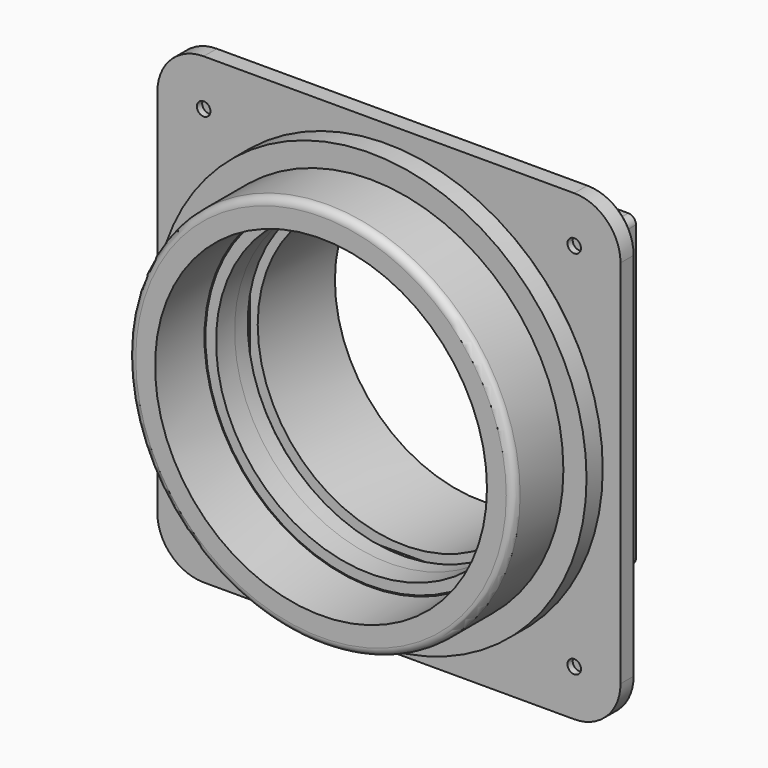
from build123d import *

# Parameters (mm, degrees)
SKETCH001_R             = 3
POCKET_DEPTH            = 4
POLARPATTERN_COUNT      = 6
CHAMFER_SIZE            = 0.75
BODY_PLACEMENT_ANGLE    = 90
SKETCH492_R             = 40
PAD111_DEPTH            = 5
SKETCH502_R             = 3
POCKET352_DEPTH         = 3.5
POLARPATTERN007_COUNT   = 6
SKETCH504_R             = 1.75
POCKET353_DEPTH         = 1.7
POCKET354_DEPTH         = 3.001
POCKET355_DEPTH         = 9.001
SKETCH506_R             = 1.75
POCKET356_DEPTH         = 6.001
POCKET356_DEPTH_BACK    = -5.001
CHAMFER001_SIZE         = 0.75
BODY166_PLACEMENT_ANGLE = 180
SKETCH498_R             = 2
SKETCH498_R_2           = 38
PAD113_DEPTH            = 25
BODY167_PLACEMENT_ANGLE = 180


with BuildPart() as air_connector_hose:
    # Sketch → Revolution (revolve)
    with BuildSketch(Plane.XZ):
        with BuildLine():
            Line((56, 0), (56, 6))
            Line((56, 6), (50, 6))
            Line((50, 6), (50, 20))
            ThreePointArc((50, 20), (49.414214, 21.414214), (48, 22))
            Line((48, 22), (43, 22))
            Line((43, 6), (43, 22))
            Line((46, 0), (43, 6))
            Line((46, 0), (56, 0))
        make_face()
    revolve(axis=Axis((0, 0, 0), (0, 0, 1)))

    # Sketch001 → Pocket (cut)
    with BuildSketch(Plane.XY):
        with Locations((51, 0)):
            Circle(SKETCH001_R)
    pocket = extrude(amount=POCKET_DEPTH, mode=Mode.SUBTRACT)

    # PolarPattern: Pocket ×6 about axis
    polarpattern_axis = Axis((0, 0, 0), (0, 0, 1))
    for i in range(1, POLARPATTERN_COUNT):
        add(pocket.rotate(polarpattern_axis, i * 360 / POLARPATTERN_COUNT), mode=Mode.SUBTRACT)

    # Chamfer
    chamfer_edges = [air_connector_hose.edges().sort_by_distance(p)[0] for p in [
        (-56, 0, 0),
        (24, 41.569219, 0),
        (48, 0, 0),
        (-24, 41.569219, 0),
        (-46, 0, 0),
        (-48, 0, 0),
        (24, -41.569219, 0),
        (-24, -41.569219, 0),
    ]]
    chamfer(chamfer_edges, length=CHAMFER_SIZE)


with BuildPart() as air_connector_hose_1:
    # Body placement: moved
    add(air_connector_hose.part.rotate(Axis((0, 0, 0), (1, 0, 0)), BODY_PLACEMENT_ANGLE))


with BuildPart() as air_connector_chamber:
    # Sketch492 → Pad111 (new body)
    with BuildSketch(Plane.XZ):
        with BuildLine():
            Line((-60, 48), (-60, -48))
            ThreePointArc((-60, -48), (-56.485281, -56.485281), (-48, -60))
            Line((-48, -60), (48, -60))
            ThreePointArc((48, -60), (56.485281, -56.485281), (60, -48))
            Line((60, -48), (60, 48))
            ThreePointArc((60, 48), (56.485281, 56.485281), (48, 60))
            Line((48, 60), (-48, 60))
            ThreePointArc((-48, 60), (-56.485281, 56.485281), (-60, 48))
        make_face()
        Circle(SKETCH492_R, mode=Mode.SUBTRACT)
    extrude(amount=PAD111_DEPTH)

    # Sketch502 → Pocket352 (cut)
    with BuildSketch(Plane.XZ):
        with Locations((51, 0)):
            Circle(SKETCH502_R)
    pocket352 = extrude(amount=POCKET352_DEPTH, mode=Mode.SUBTRACT)

    # PolarPattern007: Pocket352 ×6 about axis
    polarpattern007_axis = Axis((0, 0, 0), (0, 1, 0))
    for i in range(1, POLARPATTERN007_COUNT):
        add(pocket352.rotate(polarpattern007_axis, i * 360 / POLARPATTERN007_COUNT), mode=Mode.SUBTRACT)

    # Sketch503 → Revolution001 (revolve)
    with BuildSketch(Plane.XY):
        Polygon((40, 0), (40, 6), (42.75, 6), (45.75, 0), align=None)
    revolve(axis=Axis((0, 0, 0), (0, 1, 0)))

    # Sketch504 → Pocket353 (cut)
    with BuildSketch(Plane.XZ):
        with Locations((-48, 48)):
            Circle(SKETCH504_R)
        with Locations((48, 48)):
            Circle(SKETCH504_R)
        with Locations((48, -48)):
            Circle(SKETCH504_R)
        with Locations((-48, -48)):
            Circle(SKETCH504_R)
    extrude(amount=POCKET353_DEPTH, mode=Mode.SUBTRACT)

    # Sketch505 → Pocket354 (cut, through all)
    with BuildSketch(Plane.XZ.offset(2)):
        Polygon((-46.412287, 45.25), (-44.824574, 48), (-46.412287, 50.75), (-49.587713, 50.75), (-51.175426, 48), (-49.587713, 45.25), align=None)
        Polygon((49.587713, 45.25), (51.175426, 48), (49.587713, 50.75), (46.412287, 50.75), (44.824574, 48), (46.412287, 45.25), align=None)
        Polygon((49.587713, -50.75), (51.175426, -48), (49.587713, -45.25), (46.412287, -45.25), (44.824574, -48), (46.412287, -50.75), align=None)
        Polygon((-44.824574, -48), (-46.412287, -45.25), (-49.587713, -45.25), (-51.175426, -48), (-49.587713, -50.75), (-46.412287, -50.75), align=None)
    extrude(amount=POCKET354_DEPTH, mode=Mode.SUBTRACT)

    # Sketch507 → Pocket355 (cut, through all)
    with BuildSketch(Plane.XZ.offset(3)):
        Polygon((-34.412287, 33.25), (-32.824574, 36), (-34.412287, 38.75), (-37.587713, 38.75), (-39.175426, 36), (-37.587713, 33.25), align=None)
        Polygon((37.587713, 33.25), (39.175426, 36), (37.587713, 38.75), (34.412287, 38.75), (32.824574, 36), (34.412287, 33.25), align=None)
        Polygon((37.587713, -38.75), (39.175426, -36), (37.587713, -33.25), (34.412287, -33.25), (32.824574, -36), (34.412287, -38.75), align=None)
        Polygon((-32.824574, -36), (-34.412287, -33.25), (-37.587713, -33.25), (-39.175426, -36), (-37.587713, -38.75), (-34.412287, -38.75), align=None)
    extrude(amount=-POCKET355_DEPTH, mode=Mode.SUBTRACT)

    # Sketch506 → Pocket356 (cut, two sides)
    with BuildSketch(Plane.XZ) as pocket356_sk:
        with Locations((-36, 36)):
            Circle(SKETCH506_R)
        with Locations((36, 36)):
            Circle(SKETCH506_R)
        with Locations((36, -36)):
            Circle(SKETCH506_R)
        with Locations((-36, -36)):
            Circle(SKETCH506_R)
    extrude(amount=-POCKET356_DEPTH, mode=Mode.SUBTRACT)
    extrude(pocket356_sk.sketch, amount=-POCKET356_DEPTH_BACK, mode=Mode.SUBTRACT)

    # Chamfer001
    chamfer001_edges = [air_connector_chamber.edges().sort_by_distance(p)[0] for p in [
        (-60, -5, 0),
        (-56.485281, -5, 56.485281),
        (-56.485281, -5, -56.485281),
        (0, -5, 60),
        (0, -5, -60),
        (56.485281, -5, 56.485281),
        (56.485281, -5, -56.485281),
        (60, -5, 0),
        (-45.61843, -5, -49.375),
        (-48, -5, -50.75),
        (-45.61843, -5, -46.625),
        (-50.38157, -5, -49.375),
        (-48, -5, -45.25),
        (-50.38157, -5, -46.625),
        (-37.75, -5, -36),
        (-48, -5, 45.25),
        (-50.38157, -5, 46.625),
        (-45.61843, -5, 46.625),
        (-50.38157, -5, 49.375),
        (-45.61843, -5, 49.375),
        (-48, -5, 50.75),
        (-37.75, -5, 36),
        (34.25, -5, -36),
        (48, -5, -50.75),
        (45.61843, -5, -49.375),
        (50.38157, -5, -49.375),
        (45.61843, -5, -46.625),
        (50.38157, -5, -46.625),
        (48, -5, -45.25),
        (-40, -5, 0),
        (34.25, -5, 36),
        (48, -5, 45.25),
        (45.61843, -5, 46.625),
        (50.38157, -5, 46.625),
        (45.61843, -5, 49.375),
        (50.38157, -5, 49.375),
        (48, -5, 50.75),
    ]]
    chamfer(chamfer001_edges, length=CHAMFER001_SIZE)


with BuildPart() as air_connector_chamber_1:
    # Body166 placement: moved
    add(air_connector_chamber.part.rotate(Axis((0, 0, 0), (1, 0, 0)), BODY166_PLACEMENT_ANGLE))


with BuildPart() as exhaust_fan:
    # Sketch498 → Pad113 (new body)
    with BuildSketch(Plane.XZ):
        with BuildLine():
            Line((-40, 38), (-40, -38))
            ThreePointArc((-40, -38), (-39.414214, -39.414214), (-38, -40))
            Line((-38, -40), (38, -40))
            ThreePointArc((38, -40), (39.414214, -39.414214), (40, -38))
            Line((40, -38), (40, 38))
            ThreePointArc((40, 38), (39.414214, 39.414214), (38, 40))
            Line((38, 40), (-38, 40))
            ThreePointArc((-38, 40), (-39.414214, 39.414214), (-40, 38))
        make_face()
        with Locations((-36, 36)):
            Circle(SKETCH498_R, mode=Mode.SUBTRACT)
        with Locations((36, 36)):
            Circle(SKETCH498_R, mode=Mode.SUBTRACT)
        with Locations((36, -36)):
            Circle(SKETCH498_R, mode=Mode.SUBTRACT)
        with Locations((-36, -36)):
            Circle(SKETCH498_R, mode=Mode.SUBTRACT)
        Circle(SKETCH498_R_2, mode=Mode.SUBTRACT)
    extrude(amount=PAD113_DEPTH)


with BuildPart() as exhaust_fan_1:
    # Body167 placement: moved
    add(exhaust_fan.part.moved(Location((0, 5, 0))).rotate(Axis((0, 5, 0), (0, 0, 1)), BODY167_PLACEMENT_ANGLE))


solid = Compound([air_connector_hose_1.part, air_connector_chamber_1.part, exhaust_fan_1.part])
